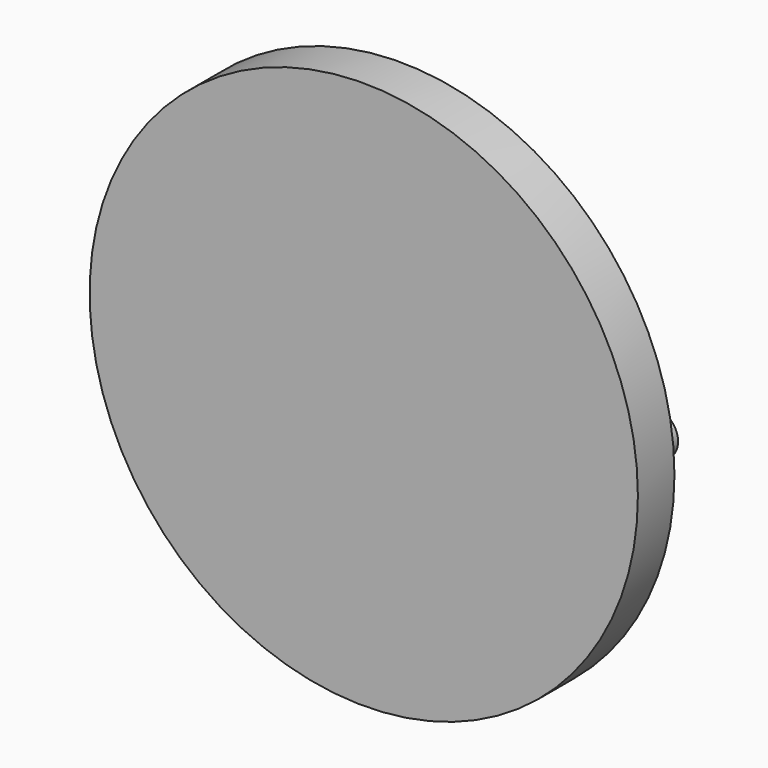
from build123d import *

# Parameters (mm, degrees)
F1_R     = 30
F2_DEPTH = 5
F0_R     = 2.4
F3_DEPTH = 5


with BuildPart() as f2:
    # F1 (on Front) → F2 (new body)
    with BuildSketch(Plane.XZ):
        Circle(F1_R)
    extrude(amount=F2_DEPTH)

    # F0 (on Front) → F3 (join)
    with BuildSketch(Plane.XZ):
        Circle(F0_R)
        with Locations((-24, 0)):
            Circle(F0_R)
        with Locations((24, 0)):
            Circle(F0_R)
    extrude(amount=-F3_DEPTH)


solid = f2.part
